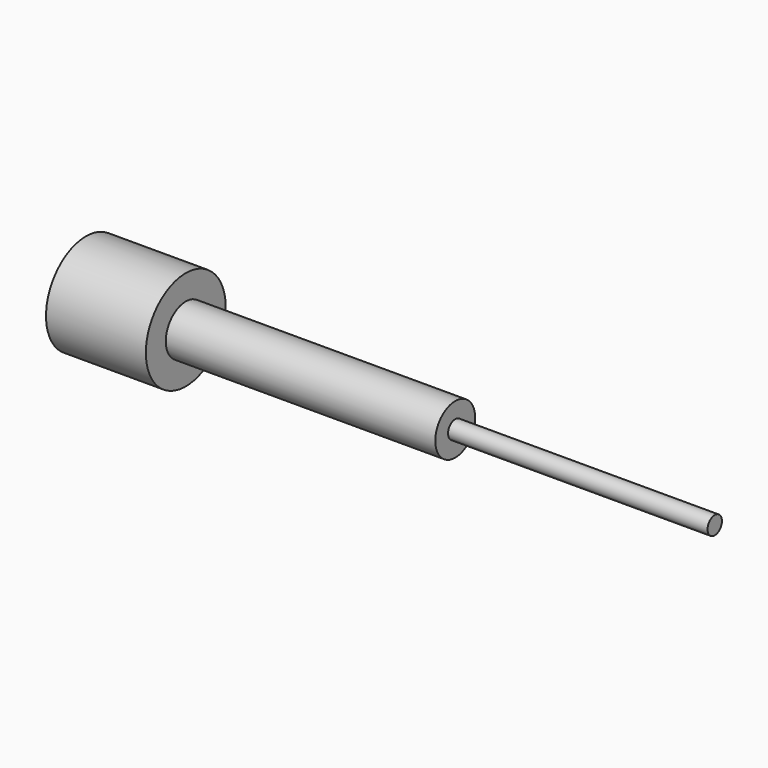
from build123d import *

# Parameters (mm, degrees)
F0_R     = 12.7
F1_DEPTH = 160.02
F2_R     = 12.7
F2_R_2   = 6.35
F3_DEPTH = 134.62
F4_R     = 6.35
F4_R_2   = 2.286
F5_DEPTH = 66.04


with BuildPart() as f1:
    # F0 (on Right) → F1 (new body)
    with BuildSketch(Plane.YZ):
        Circle(F0_R)
    extrude(amount=-F1_DEPTH)

    # F2 (on face) → F3 (cut)
    with BuildSketch(Plane.YZ):
        Circle(F2_R)
        Circle(F2_R_2, mode=Mode.SUBTRACT)
    extrude(amount=-F3_DEPTH, mode=Mode.SUBTRACT)

    # F4 (on face) → F5 (cut)
    with BuildSketch(Plane.YZ):
        Circle(F4_R)
        Circle(F4_R_2, mode=Mode.SUBTRACT)
    extrude(amount=-F5_DEPTH, mode=Mode.SUBTRACT)


solid = f1.part
